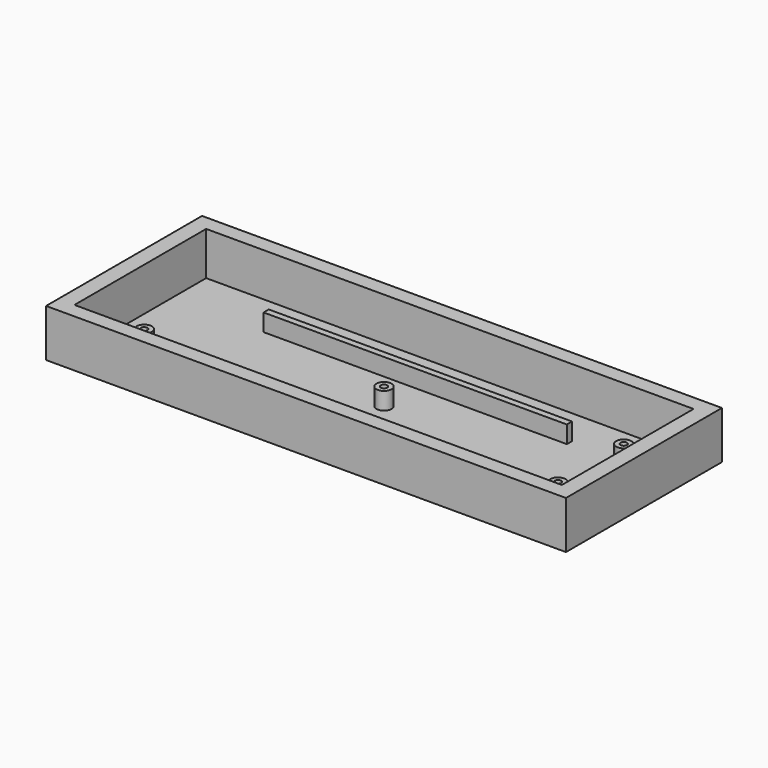
from build123d import *

# Parameters (mm, degrees)
SKETCH_W         = 240
SKETCH_H         = 90
PAD_DEPTH        = 10
SKETCH001_W      = 225
SKETCH001_H      = 76
SKETCH001_R      = 3.5
SKETCH001_W_2    = 140
SKETCH001_H_2    = 3
SKETCH001_W_3    = 20
SKETCH001_H_3    = 5
SKETCH001_R_2    = 1.5
POCKET_DEPTH     = 8
POCKET_FACE5_W   = 90
POCKET_FACE5_H   = 240
POCKET_FACE5_W_2 = 76
POCKET_FACE5_H_2 = 225
PAD001_DEPTH     = 12


with BuildPart() as part:
    # Sketch → Pad (new body)
    with BuildSketch(Plane.XY):
        Rectangle(SKETCH_W, SKETCH_H)
    extrude(amount=PAD_DEPTH)

    # Sketch001 (on Face6 of Pad) → Pocket (cut)
    with BuildSketch(Plane.XY.offset(10)):
        Rectangle(SKETCH001_W, SKETCH001_H)
        Circle(SKETCH001_R, mode=Mode.SUBTRACT)
        with Locations((-95.5, -19)):
            Circle(SKETCH001_R, mode=Mode.SUBTRACT)
        with Locations((95.5, 19)):
            Circle(SKETCH001_R, mode=Mode.SUBTRACT)
        with Locations((95.5, -19)):
            Circle(SKETCH001_R, mode=Mode.SUBTRACT)
        with Locations((0, 19.5)):
            Rectangle(SKETCH001_W_2, SKETCH001_H_2, mode=Mode.SUBTRACT)
        with Locations((-5, -28.5)):
            Rectangle(SKETCH001_W_3, SKETCH001_H_3, mode=Mode.SUBTRACT)
        with Locations((-95.5, -19)):
            Circle(SKETCH001_R_2)
        with Locations((95.5, 19)):
            Circle(SKETCH001_R_2)
        with Locations((95.5, -19)):
            Circle(SKETCH001_R_2)
        Circle(SKETCH001_R_2)
    extrude(amount=-POCKET_DEPTH, mode=Mode.SUBTRACT)

    # Pocket Face5 → Pad001 (add)
    with BuildSketch(Plane(origin=(0, 0, 10), x_dir=(0, 1, 0), z_dir=(0, 0, 1))):
        Rectangle(POCKET_FACE5_W, POCKET_FACE5_H)
        Rectangle(POCKET_FACE5_W_2, POCKET_FACE5_H_2, mode=Mode.SUBTRACT)
    extrude(amount=PAD001_DEPTH)


solid = part.part
